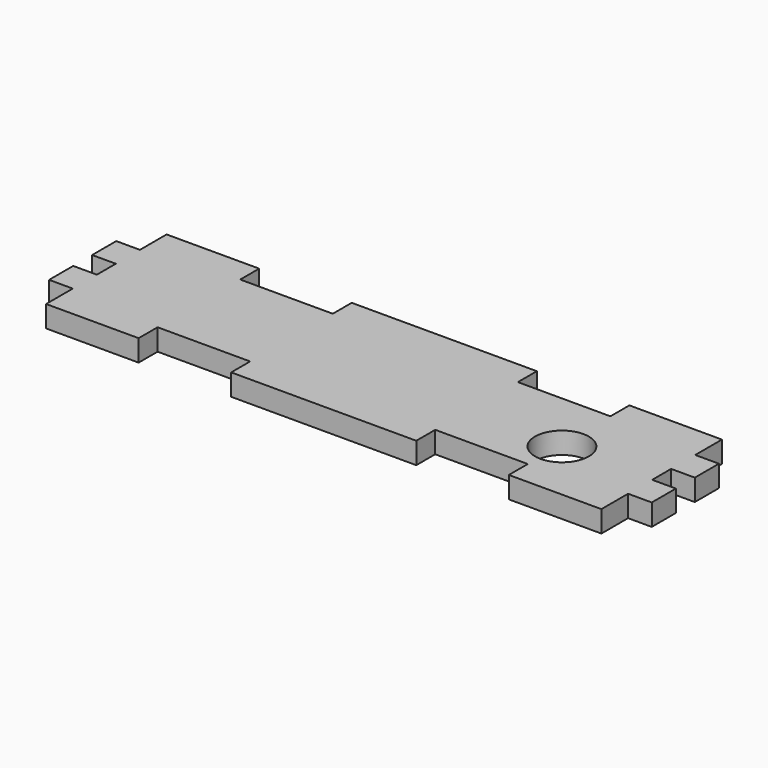
from build123d import *

# Parameters (mm, degrees)
F0_R     = 12.5
F1_DEPTH = 10


with BuildPart() as f1:
    # F0 (on Top) → F1 (new body)
    with BuildSketch(Plane.XY):
        Polygon((129, 19.5), (129, 35), (86, 35), (86, 24), (43, 24), (43, 35), (-43, 35), (-43, 24), (-86, 24), (-86, 35), (-129, 35), (-129, 19.5), (-140, 19.5), (-140, 5.5), (-129, 5.5), (-129, -5.5), (-140, -5.5), (-140, -19.5), (-129, -19.5), (-129, -35), (-86, -35), (-86, -24), (-43, -24), (-43, -35), (43, -35), (43, -24), (86, -24), (86, -35), (129, -35), (129, -19.5), (140, -19.5), (140, -5.5), (129, -5.5), (129, 5.5), (140, 5.5), (140, 19.5), align=None)
        with Locations((87.053038, -5.482964)):
            Circle(F0_R, mode=Mode.SUBTRACT)
    extrude(amount=F1_DEPTH)


solid = f1.part
